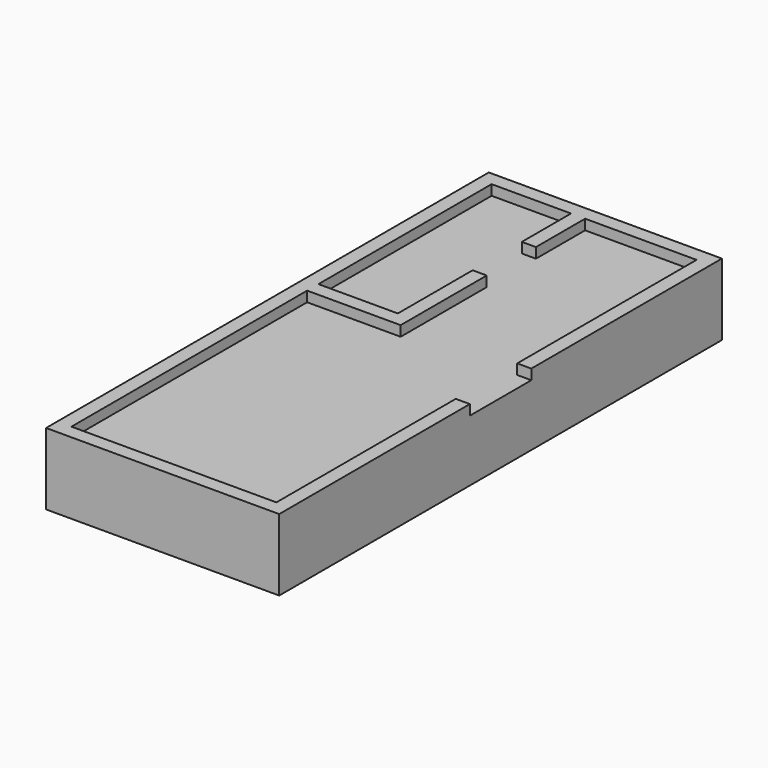
from build123d import *

# Parameters (mm, degrees)
F1_DEPTH = 609.6
F2_W     = 139.7
F2_H     = 609.6
F3_DEPTH = 101.6


with BuildPart() as f1:
    # F0 (on Top) → F1 (new body)
    with BuildSketch(Plane.XY):
        Polygon((-1142.9754019082, 4806.9390297801), (-1142.9754019082, -679.4609702199), (694.7043538094, -679.4609702199), (1168.4245980918, -679.4609702199), (1168.4245980918, -422.2676753998), (1168.4245980918, 4806.9390297801), align=None)
    extrude(amount=F1_DEPTH)

    # F2 (on face) → F3 (join)
    with BuildSketch(Plane.XY.offset(609.6)):
        Polygon((-76.1754019082, 4667.2390297801), (1028.7245980918, 4667.2390297801), (1028.7245980918, 2444.7390297801), (1168.4245980918, 2444.7390297801), (1168.4245980918, 4806.9390297801), (-1142.9754019082, 4806.9390297801), (-1142.9754019082, 2444.7390297801), (-1003.2754019082, 2444.7390297801), (-1003.2754019082, 2520.9390297801), (-1003.2754019082, 4667.2390297801), (-215.8754019082, 4667.2390297801), align=None)
        with Locations((-146.0254019082, 4362.4390297801)):
            Rectangle(F2_W, F2_H)
        Polygon((-76.1754019082, 2381.2390297801), (-76.1754019082, 3448.0390297801), (-215.8754019082, 3448.0390297801), (-215.8754019082, 2520.9390297801), (-1003.2754019082, 2520.9390297801), (-1003.2754019082, 2444.7390297801), (-1003.2754019082, 2381.2390297801), align=None)
        Polygon((393.7245980918, -679.4609702199), (393.7245980918, -539.7609702199), (-1003.2754019082, -539.7609702199), (-1003.2754019082, 1682.7390297801), (-1142.9754019082, 1682.7390297801), (-1142.9754019082, -679.4609702199), (-368.2754019082, -679.4609702199), align=None)
        Polygon((-1003.2754019082, 2381.2390297801), (-1003.2754019082, 2444.7390297801), (-1142.9754019082, 2444.7390297801), (-1142.9754019082, 1682.7390297801), (-1003.2754019082, 1682.7390297801), align=None)
        Polygon((1168.4245980918, 1682.7390297801), (1028.7245980918, 1682.7390297801), (1028.7245980918, -539.7609702199), (393.7245980918, -539.7609702199), (393.7245980918, -679.4609702199), (1168.4245980918, -679.4609702199), align=None)
    extrude(amount=F3_DEPTH)


solid = f1.part
